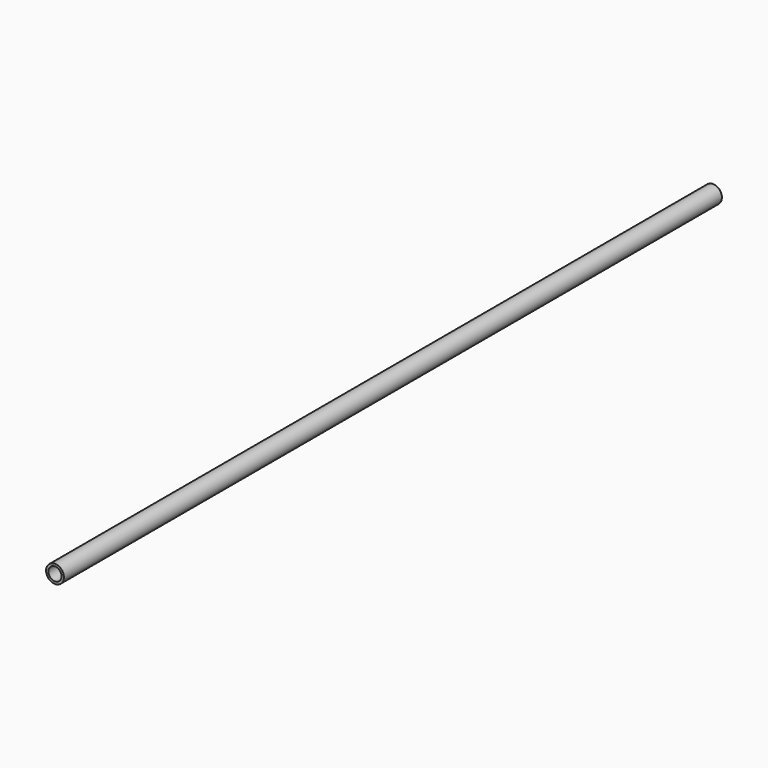
from build123d import *

# Parameters (mm, degrees)
F0_R     = 10.668
F1_DEPTH = 983.30004
F3_D     = 15.7988
F5_D     = 2.54
F5_DEPTH = 12.7
F5_TIP   = 0.7630929862


with BuildPart() as f1:
    # F0 (on Front) → F1 (new body)
    with BuildSketch(Plane.XZ):
        Circle(F0_R)
    extrude(amount=F1_DEPTH)

    # F3 (through all)
    with Locations(Plane(origin=(0, 0, 0), x_dir=(1, 0, 0), z_dir=(0, 1, 0))):
        with Locations((0, 0)):
            Hole(F3_D / 2)

    # F5 (one way)
    with BuildSketch(Plane.YZ):
        with Locations((-889, 0), (-863.6, 0), (-838.2, 0), (-812.8, 0), (-787.4, 0), (-762, 0), (-736.6, 0), (-711.2, 0), (-685.8, 0), (-660.4, 0), (-635, 0), (-609.6, 0), (-584.2, 0), (-558.8, 0), (-533.4, 0), (-508, 0), (-482.6, 0), (-457.2, 0), (-431.8, 0), (-406.4, 0), (-381, 0), (-355.6, 0), (-330.2, 0), (-304.8, 0), (-279.4, 0), (-304.8, 0), (-254, 0), (-228.6, 0), (-228.6, 0), (-203.2, 0), (-177.8, 0), (-152.4, 0), (-127, 0)):
            Circle(F5_D / 2)
    extrude(amount=-F5_DEPTH, mode=Mode.SUBTRACT)
    with Locations(Plane.YZ):
        with Locations((-889, 0), (-863.6, 0), (-838.2, 0), (-812.8, 0), (-787.4, 0), (-762, 0), (-736.6, 0), (-711.2, 0), (-685.8, 0), (-660.4, 0), (-635, 0), (-609.6, 0), (-584.2, 0), (-558.8, 0), (-533.4, 0), (-508, 0), (-482.6, 0), (-457.2, 0), (-431.8, 0), (-406.4, 0), (-381, 0), (-355.6, 0), (-330.2, 0), (-304.8, 0), (-279.4, 0), (-304.8, 0), (-254, 0), (-228.6, 0), (-228.6, 0), (-203.2, 0), (-177.8, 0), (-152.4, 0), (-127, 0)):
            with Locations((0, 0, -(F5_DEPTH + F5_TIP / 2))):  # 118° drill point
                Cone(0, F5_D / 2, F5_TIP, mode=Mode.SUBTRACT)


solid = f1.part
